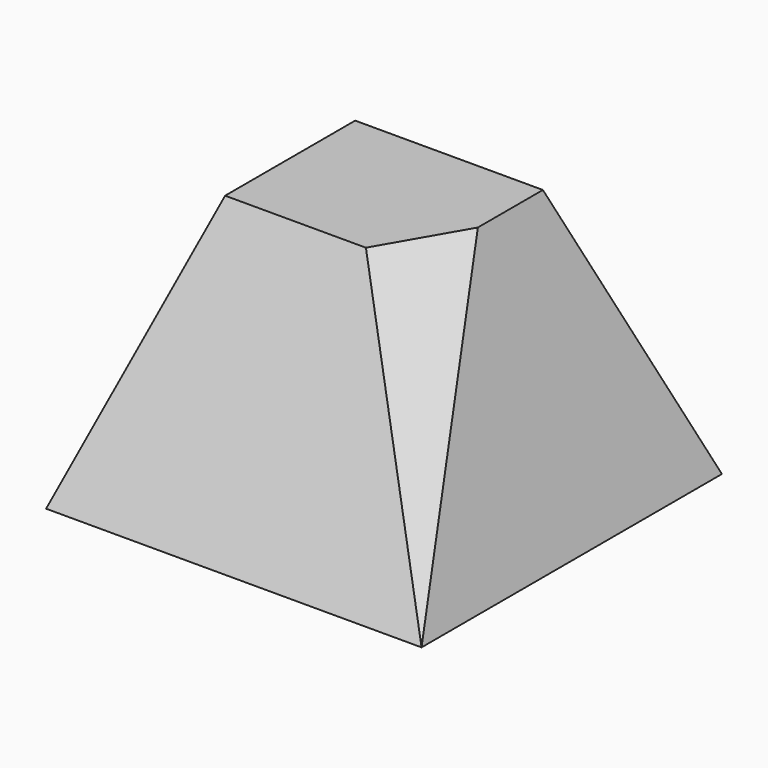
from build123d import *

# Parameters (mm, degrees)
F1_W = 100
F1_H = 100
F3_W = 50
F3_H = 43.30127


with BuildPart() as f4:
    # F1 (on Top) → F4 section 0
    with BuildSketch(Plane.XY):
        Rectangle(F1_W, F1_H)
    # F3 (on offset) → F4 section 1
    with BuildSketch(Plane.XY.offset(70)):
        Rectangle(F3_W, F3_H)
    loft()

    # F5 (on offset) → F6 section 0
    with BuildSketch(Plane.XY.offset(70), mode=Mode.PRIVATE) as f6_s0:
        Polygon((25, -21.650635), (25, 0), (12.5, -21.650635), align=None)
    loft([f6_s0.sketch, Vertex(50, -50, 0)], mode=Mode.SUBTRACT)


solid = f4.part
